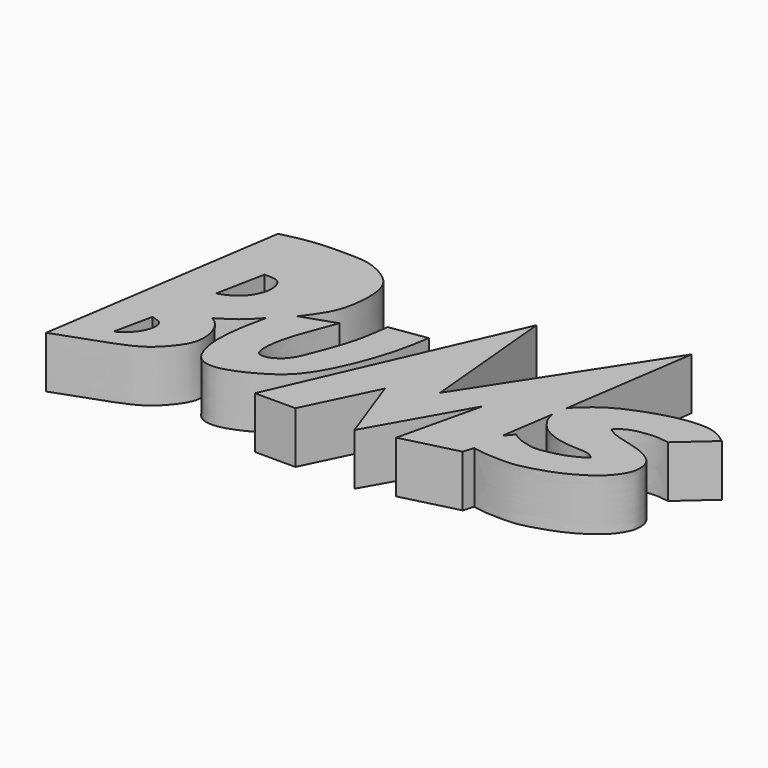
from build123d import *

# Parameters (mm, degrees)
F1_DEPTH = 5


with BuildPart() as f1:
    # F0 (on Top) → F1 (new body)
    with BuildSketch(Plane.XY):
        with BuildLine():
            Line((-11.9339115918, 1.2369948672), (-15.4942041263, -22.3364569247))
            add(Edge.make_bspline(
                [(-15.4942041263, -22.3364569247), (-14.9275565475, -22.140823668), (-13.7003593821, -21.717137788), (-11.3227416299, -20.841670387), (-9.2973726702, -20.0925704973), (-7.831790759, -19.270240376), (-6.576636471, -17.9263205711), (-5.5215748727, -16.3353539415), (-5.7458541424, -14.2266496026), (-6.5496151072, -13.02801702), (-7.0047088618, -12.7519690511), (-7.1944813244, -12.6368580386)],
                knots=[0, 0, 0, 0, 0.1154978319, 0.2501353878, 0.3742669287, 0.4821317926, 0.5952976777, 0.7101035609, 0.829961235, 0.9290944451, 1, 1, 1, 1], degree=3))
            add(Edge.make_bspline(
                [(-4.0285252035, -10.0812064484), (-4.3613983661, -10.451821146), (-5.0162840913, -11.1809585543), (-6.1494060095, -11.9981207157), (-6.8538565223, -12.428672302), (-7.1944813244, -12.6368580386)],
                knots=[0, 0, 0, 0, 0.3480612414, 0.684766344, 1, 1, 1, 1], degree=3))
            add(Edge.make_bspline(
                [(-4.0285252035, -10.0812064484), (-4.1765626816, -10.7494306121), (-4.4821186932, -12.1286753339), (-4.7788494338, -14.5106317337), (-4.6824192494, -16.4803958858), (-3.9497327675, -18.4029742085), (-2.5600138272, -18.8488591096), (-1.1094105527, -18.6066651591), (0.870074742, -17.7465124687), (2.9532099101, -16.45219886), (4.5102446816, -14.5416170976), (5.8073007182, -11.7614166469), (6.3021321717, -10.384367405), (7.0063793042, -8.2893500091), (7.3801050806, -6.3764877409), (7.534904087, -5.4100629487), (7.605407387, -4.9699041992)],
                knots=[0, 0, 0, 0, 0.0734242477, 0.1515509489, 0.2236588551, 0.2933578572, 0.3507031706, 0.4111389259, 0.4854593255, 0.5642840114, 0.6446781352, 0.7321774873, 0.794387016, 0.8688062823, 0.9402477428, 1, 1, 1, 1], degree=3))
            Line((7.605407387, -4.9699041992), (4.0580104105, -5.5039203726))
            add(Edge.make_bspline(
                [(0.8157671546, -7.2966907173), (0.392177426, -8.3983824468), (-0.3385584106, -10.2989139594), (-0.8446044507, -11.9351028085), (-1.1675495345, -13.6592939514), (-1.0206611002, -14.9839379688), (-0.3029098706, -15.1206715644), (0.359193733, -14.9673898334), (1.430903313, -14.2582811685), (2.0756398847, -12.912807819), (2.6176783013, -11.4113319326), (3.6249545524, -8.7763418161), (3.9090742741, -6.6293682733), (4.0580104105, -5.5039203726)],
                knots=[0, 0, 0, 0, 0.1273774207, 0.2197391481, 0.3137387774, 0.3899608444, 0.4430933127, 0.500681924, 0.5788818693, 0.6639180353, 0.7529964993, 0.8705202623, 1, 1, 1, 1], degree=3))
            Line((0.8157671546, -7.2966907173), (-2.3501878604, -8.3647249267))
            add(Edge.make_bspline(
                [(-11.9339115918, 1.2369948672), (-10.9796138257, 1.4722094614), (-8.9848616492, 1.9638744746), (-5.2238298859, 1.9671752862), (-3.3311900704, 1.8416948837), (-0.8687690858, 0.5309553073), (-0.0604239132, -1.3473730095), (-0.138866357, -3.9040861608), (-0.6919741352, -6.1491604791), (-1.7812739747, -7.6045904761), (-2.3501878604, -8.3647249267)],
                knots=[0, 0, 0, 0, 0.1370597913, 0.2864937201, 0.3957198708, 0.5205972396, 0.629642061, 0.752521664, 0.8707482948, 1, 1, 1, 1], degree=3))
        make_face()
        with BuildLine():
            add(Edge.make_bspline(
                [(-10.8436187729, -15.2807272971), (-10.70332069, -15.3150570995), (-10.4022551094, -15.4172808235), (-9.8028030152, -15.6153138212), (-9.6264916345, -16.3682936676), (-9.8095664104, -17.0982242739), (-10.1738248562, -17.8275903701), (-10.8303737441, -18.4979285041), (-11.3085703924, -18.8529193401), (-11.63743902, -18.9890023321)],
                knots=[0, 0, 0, 0, 0.1139139383, 0.2412668472, 0.3802367572, 0.5254274053, 0.6758171135, 0.8359764645, 1, 1, 1, 1], degree=3))
            Line((-11.63743902, -18.9890023321), (-10.8436187729, -15.2807272971))
        make_face(mode=Mode.SUBTRACT)
        with BuildLine():
            add(Edge.make_bspline(
                [(-8.5624214262, -4.6159103513), (-8.3662386348, -4.6105898342), (-7.961419712, -4.5997464121), (-7.2624195509, -4.682447499), (-6.842980735, -5.1342312972), (-6.6744954788, -5.7835784605), (-6.6585979694, -6.4653552795), (-6.9464888518, -7.3454475041), (-7.4658883383, -8.1463059856), (-8.0079994552, -8.6069878323), (-8.7173544583, -9.0431923538), (-9.2340425255, -9.2198639021), (-9.4929523766, -9.3090236187)],
                knots=[0, 0, 0, 0, 0.0909252953, 0.1867785052, 0.2750654367, 0.3690540556, 0.4648977176, 0.576922585, 0.6904706787, 0.788589815, 0.8940519656, 1, 1, 1, 1], degree=3))
            Line((-9.4929523766, -9.3090236187), (-8.5624214262, -4.6159103513))
        make_face(mode=Mode.SUBTRACT)
    extrude(amount=F1_DEPTH)


with BuildPart() as f1b:
    # F0 (on Top) → F1, piece 2 (new body)
    with BuildSketch(Plane.XY):
        with BuildLine():
            Line((32.3449000716, -6.9951475598), (35.3964231908, -4.2869201861))
            add(Edge.make_bspline(
                [(35.3964231908, -4.2869201861), (35.0033863439, -3.9993946344), (34.1806095403, -3.3974934228), (32.4056094483, -3.1283439329), (29.8875753894, -3.5168305226), (27.820135685, -4.217397492), (25.9579543114, -4.9563967637), (24.6394839883, -5.8054290916), (23.4611808588, -6.7415388796), (23.0604026245, -7.2364796213), (22.8851754218, -7.4528763071)],
                knots=[0, 0, 0, 0, 0.1155674022, 0.2419268791, 0.394612825, 0.5379098603, 0.6722153485, 0.7931160282, 0.9095467355, 1, 1, 1, 1], degree=3))
            Line((22.8851754218, -7.4528763071), (24.7680991888, 5.352914799))
            Line((24.7680991888, 5.352914799), (13.8625325635, -11.422409676))
            Line((13.8625325635, -11.422409676), (12.6436753199, 1.7604936147))
            Line((12.6436753199, 1.7604936147), (2.9890427832, -20.211013034))
            Line((2.9890427832, -20.211013034), (6.9022160023, -20.211013034))
            Line((6.9022160023, -20.211013034), (10.1738860831, -13.4752225131))
            Line((10.1738860831, -13.4752225131), (12.6116005704, -20.211013034))
            Line((12.6116005704, -20.211013034), (17.7436303347, -11.1337332055))
            Line((17.7436303347, -11.1337332055), (15.851194039, -19.2166808993))
            Line((15.851194039, -19.2166808993), (21.2077517062, -17.8695227951))
            Line((21.2077517062, -17.8695227951), (21.5119887143, -16.8553832918))
            add(Edge.make_bspline(
                [(32.3449000716, -6.9951475598), (31.9716217807, -6.9348196191), (31.2166316227, -6.8128007323), (30.0489131862, -6.9213092877), (28.8948852837, -7.1153781332), (28.2254914254, -7.537765255), (27.8446839361, -7.7712617595), (27.6654041714, -8.0752646901), (28.0346173437, -8.2130252202), (28.3002071528, -8.452594206), (29.3371315449, -8.7764080738), (30.7742729499, -9.1323747826), (31.8210267688, -9.5004445437), (32.9689948015, -10.1955633605), (33.3946262492, -11.1680118439), (33.3533029309, -12.2887370753), (32.874376806, -13.1832424561), (32.1309926666, -14.1764803224), (30.77415279, -15.1662248161), (29.2593431396, -16.0082243911), (27.3738339133, -16.6637481999), (25.7067645715, -17.1009142258), (24.3842616001, -17.1318026064), (22.8386320744, -17.1058314132), (21.9451192038, -16.9371510982), (21.5119887143, -16.8553832918)],
                knots=[0, 0, 0, 0, 0.0445115188, 0.0900286982, 0.1352752191, 0.1721185894, 0.2001724321, 0.2209933626, 0.2439555842, 0.2690392275, 0.3118760791, 0.3634658497, 0.4081247488, 0.4553399115, 0.4974698032, 0.5406973925, 0.5822968719, 0.6285056548, 0.6823701708, 0.7378129447, 0.7970822704, 0.851712974, 0.8997214023, 0.9513899357, 1, 1, 1, 1], degree=3))
        make_face()
        with BuildLine():
            add(Edge.make_bspline(
                [(22.599093616, -13.1554109976), (22.786306473, -13.2872559939), (23.1424557952, -13.5380748043), (23.6474098879, -13.7411471993), (24.3712422437, -13.9293996), (25.2172606403, -14.1039318707), (26.3303276172, -13.8523789715), (27.2917456379, -13.6689630781), (28.2976032868, -13.2507802397), (29.0484744516, -12.8555420692), (29.4436596086, -12.5362954578), (29.2171852605, -12.4748962395), (28.9830996585, -12.2654588015), (28.6281708823, -12.1257540648), (28.1372806632, -12.0590967434), (27.2142916764, -12.0792540901), (25.8073858304, -11.9018761134), (25.0718186376, -11.6335171089), (23.8892291143, -11.1342300075), (23.208354649, -10.2190386654), (22.8790233204, -9.7240946414), (22.7535247119, -9.1804633686), (22.6849187165, -8.8832778856)],
                knots=[0, 0, 0, 0, 0.0474395014, 0.0902477883, 0.1401269433, 0.1944123753, 0.2561373298, 0.3144548744, 0.3752871886, 0.4310397774, 0.4659190607, 0.4875544953, 0.5206943019, 0.5562721954, 0.5963533595, 0.6530511105, 0.7221782392, 0.7747240641, 0.8399447444, 0.9015269831, 0.946168014, 1, 1, 1, 1], degree=3))
            Line((22.599093616, -13.1554109976), (21.9134055078, -13.9563502744))
            Line((21.9134055078, -13.9563502744), (22.6849187165, -8.8832778856))
        make_face(mode=Mode.SUBTRACT)
    extrude(amount=F1_DEPTH)


solid = Compound([f1.part, f1b.part])
